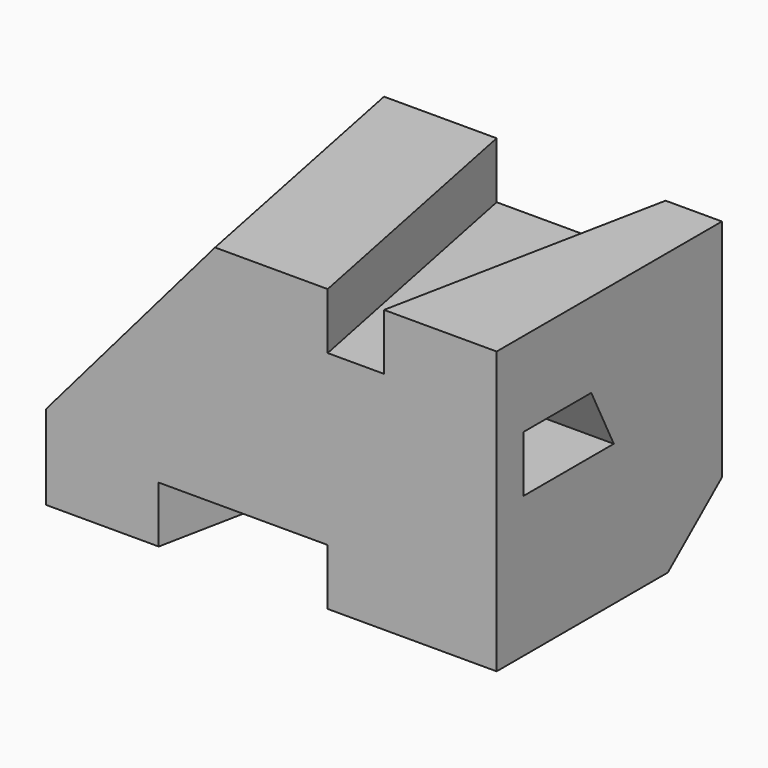
from build123d import *

# Parameters (mm, degrees)
F0_W     = 80
F0_H     = 50
F1_DEPTH = 50
F3_DEPTH = 10
F5_DEPTH = 10
F7_DEPTH = 25
F9_DEPTH = 15


with BuildPart() as f1:
    # F0 (on Top) → F1 (new body)
    with BuildSketch(Plane.XY):
        with Locations((40, 25)):
            Rectangle(F0_W, F0_H)
    extrude(amount=F1_DEPTH)

    # F2 (on face) → F3 (cut)
    with BuildSketch(Plane.XY.offset(50)):
        Polygon((60, 0), (70, 50), (40, 50), (50, 0), align=None)
    extrude(amount=-F3_DEPTH, mode=Mode.SUBTRACT)

    # F4 (on face) → F5 (cut)
    with BuildSketch(Plane(origin=(0, 0, 0), x_dir=(1, 0, 0), z_dir=(0, 0, -1))):
        Polygon((30, -50), (40, -50), (50, 0), (20, 0), align=None)
    extrude(amount=-F5_DEPTH, mode=Mode.SUBTRACT)

    # F6 (on face) → F7 (cut)
    with BuildSketch(Plane.YZ.offset(80)):
        Polygon((21, 35), (6, 35), (6, 25), (26, 25), align=None)
    extrude(amount=-F7_DEPTH, mode=Mode.SUBTRACT)

    # F8 (on face) → F9 (cut)
    with BuildSketch(Plane.YZ.offset(80)):
        Polygon((50, 0), (50, 10), (38, 0), align=None)
    extrude(amount=-F9_DEPTH, mode=Mode.SUBTRACT)

    # F12: sweep along a path in F11
    with BuildLine(Plane.XZ) as f12_path:
        Line((30, 50), (0, 15))
    # F10 (on face) → F12 (sweep, cut)
    with BuildSketch(Plane.XY.offset(50)):
        Polygon((30, 0), (20, 50), (0, 50), (0, 0), align=None)
    sweep(path=f12_path.line, mode=Mode.SUBTRACT)


solid = f1.part
